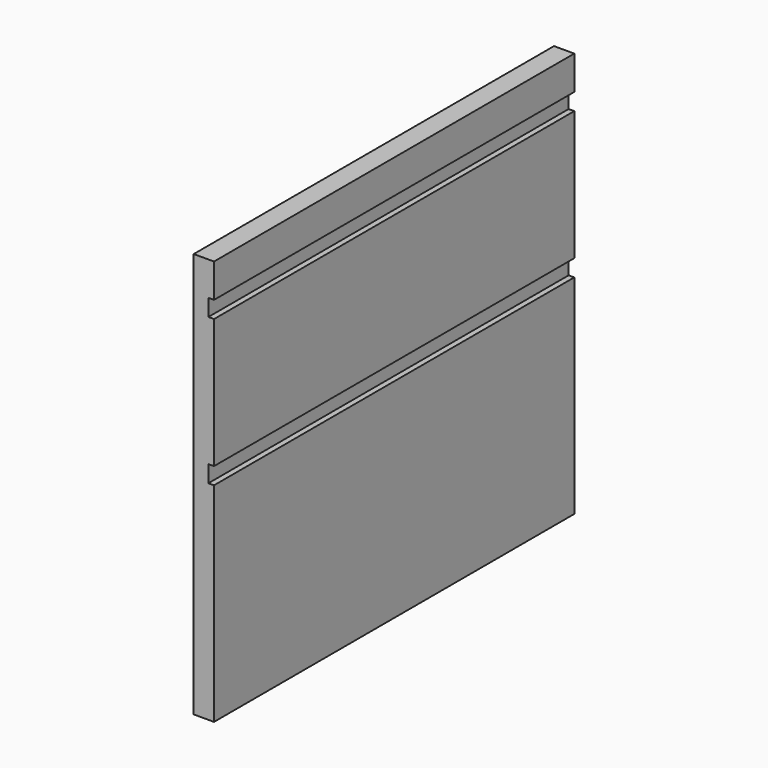
from build123d import *

# Parameters (mm, degrees)
F0_W     = 18
F0_H     = 360
F1_DEPTH = 400
F2_W     = 5
F2_H     = 15
F3_DEPTH = 400.001


with BuildPart() as f1:
    # F0 (on Front) → F1 (new body)
    with BuildSketch(Plane.XZ):
        with Locations((9, 180)):
            Rectangle(F0_W, F0_H)
    extrude(amount=-F1_DEPTH)

    # F2 (on face) → F3 (cut, through all)
    with BuildSketch(Plane.XZ):
        with Locations((15.5, 192.5)):
            Rectangle(F2_W, F2_H)
        with Locations((15.5, 322.5)):
            Rectangle(F2_W, F2_H)
    extrude(amount=-F3_DEPTH, mode=Mode.SUBTRACT)


solid = f1.part
